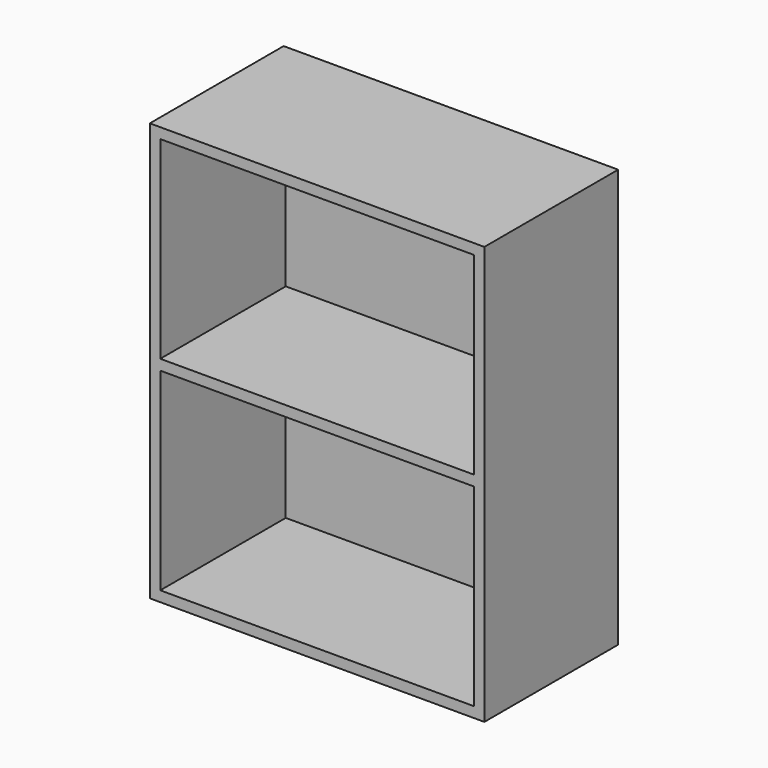
from build123d import *

# Parameters (mm, degrees)
F0_W     = 609.6
F0_H     = 762
F1_DEPTH = 304.8
F2_W     = 571.5
F2_H     = 352.425
F3_DEPTH = 285.75


with BuildPart() as f1:
    # F0 (on Front) → F1 (new body)
    with BuildSketch(Plane.XZ):
        Rectangle(F0_W, F0_H)
    extrude(amount=F1_DEPTH)

    # F2 (on face) → F3 (cut, through all)
    with BuildSketch(Plane.XZ.offset(304.8)):
        with Locations((0, 185.7375)):
            Rectangle(F2_W, F2_H)
        with Locations((0, -185.7375)):
            Rectangle(F2_W, F2_H)
    extrude(amount=-F3_DEPTH, mode=Mode.SUBTRACT)


solid = f1.part
